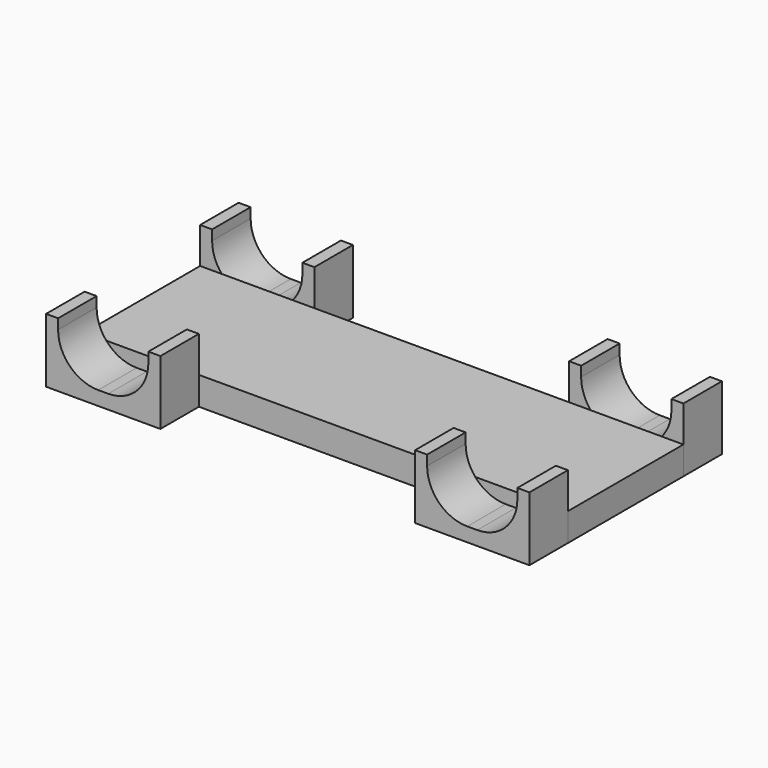
from build123d import *

# Parameters (mm, degrees)
BOX008_W     = 60.25
BOX008_H     = 18
BOX008_DEPTH = 3.5
BOX001_W     = 11.25
BOX001_H     = 6
BOX001_DEPTH = 10
BOX_W        = 14.25
BOX_H        = 6
BOX_DEPTH    = 8
FILLET_R     = 5
BOX010_W     = 11.25
BOX010_H     = 6
BOX010_DEPTH = 10
BOX009_W     = 14.25
BOX009_H     = 6
BOX009_DEPTH = 8
FILLET001_R  = 5
BOX012_W     = 11.25
BOX012_H     = 6
BOX012_DEPTH = 10
BOX011_W     = 14.25
BOX011_H     = 6
BOX011_DEPTH = 8
FILLET003_R  = 5
BOX014_W     = 11.25
BOX014_H     = 6
BOX014_DEPTH = 10
BOX013_W     = 14.25
BOX013_H     = 6
BOX013_DEPTH = 8
FILLET002_R  = 5


with BuildPart() as cube008:
    # Box008 → Box008 (new body)
    with BuildSketch(Plane(origin=(0, 6, 0), x_dir=(1, 0, 0), z_dir=(0, 0, 1))):
        with Locations((30.125, 9)):
            Rectangle(BOX008_W, BOX008_H)
    extrude(amount=BOX008_DEPTH)


with BuildPart() as cube001:
    # Box001 → Box001 (new body)
    with BuildSketch(Plane(origin=(1.5, 0, 1.75), x_dir=(1, 0, 0), z_dir=(0, 0, 1))):
        with Locations((5.625, 3)):
            Rectangle(BOX001_W, BOX001_H)
    extrude(amount=BOX001_DEPTH)


with BuildPart() as fillet_body:
    # Box → Box (new body)
    with BuildSketch(Plane.XY):
        with Locations((7.125, 3)):
            Rectangle(BOX_W, BOX_H)
    extrude(amount=BOX_DEPTH)

    # Cut: cut Cube001
    add(cube001.part, mode=Mode.SUBTRACT)

    # Fillet
    fillet_edges = [fillet_body.edges().sort_by_distance(p)[0] for p in [
        (12.75, 3, 1.75),
        (1.5, 3, 1.75),
    ]]
    fillet(fillet_edges, radius=FILLET_R)


with BuildPart() as cube010:
    # Box010 → Box010 (new body)
    with BuildSketch(Plane(origin=(1.5, 0, 1.75), x_dir=(1, 0, 0), z_dir=(0, 0, 1))):
        with Locations((5.625, 3)):
            Rectangle(BOX010_W, BOX010_H)
    extrude(amount=BOX010_DEPTH)


with BuildPart() as axle01:
    # Box009 → Box009 (new body)
    with BuildSketch(Plane.XY):
        with Locations((7.125, 3)):
            Rectangle(BOX009_W, BOX009_H)
    extrude(amount=BOX009_DEPTH)

    # Cut001: cut Cube010
    add(cube010.part, mode=Mode.SUBTRACT)


with BuildPart() as axle01_1:
    # Cut001 placement: moved
    add(axle01.part.moved(Location((0, 24, 0))))

    # Fillet001
    fillet001_edges = [axle01_1.edges().sort_by_distance(p)[0] for p in [
        (12.75, 27, 1.75),
        (1.5, 27, 1.75),
    ]]
    fillet(fillet001_edges, radius=FILLET001_R)

    # Fusion: union Fillet body
    add(fillet_body.part)


with BuildPart() as cube012:
    # Box012 → Box012 (new body)
    with BuildSketch(Plane(origin=(1.5, 0, 1.75), x_dir=(1, 0, 0), z_dir=(0, 0, 1))):
        with Locations((5.625, 3)):
            Rectangle(BOX012_W, BOX012_H)
    extrude(amount=BOX012_DEPTH)


with BuildPart() as fillet003:
    # Box011 → Box011 (new body)
    with BuildSketch(Plane.XY):
        with Locations((7.125, 3)):
            Rectangle(BOX011_W, BOX011_H)
    extrude(amount=BOX011_DEPTH)

    # Cut003: cut Cube012
    add(cube012.part, mode=Mode.SUBTRACT)

    # Fillet003
    fillet003_edges = [fillet003.edges().sort_by_distance(p)[0] for p in [
        (12.75, 3, 1.75),
        (1.5, 3, 1.75),
    ]]
    fillet(fillet003_edges, radius=FILLET003_R)


with BuildPart() as cube014:
    # Box014 → Box014 (new body)
    with BuildSketch(Plane(origin=(1.5, 0, 1.75), x_dir=(1, 0, 0), z_dir=(0, 0, 1))):
        with Locations((5.625, 3)):
            Rectangle(BOX014_W, BOX014_H)
    extrude(amount=BOX014_DEPTH)


with BuildPart() as axle02:
    # Box013 → Box013 (new body)
    with BuildSketch(Plane.XY):
        with Locations((7.125, 3)):
            Rectangle(BOX013_W, BOX013_H)
    extrude(amount=BOX013_DEPTH)

    # Cut002: cut Cube014
    add(cube014.part, mode=Mode.SUBTRACT)


with BuildPart() as axle02_1:
    # Cut002 placement: moved
    add(axle02.part.moved(Location((0, 24, 0))))

    # Fillet002
    fillet002_edges = [axle02_1.edges().sort_by_distance(p)[0] for p in [
        (12.75, 27, 1.75),
        (1.5, 27, 1.75),
    ]]
    fillet(fillet002_edges, radius=FILLET002_R)

    # Fusion001: union Fillet003
    add(fillet003.part)


with BuildPart() as axle02_2:
    # Fusion001 placement: moved
    add(axle02_1.part.moved(Location((46, 0, 0))))


solid = Compound([cube008.part, axle01_1.part, axle02_2.part])
